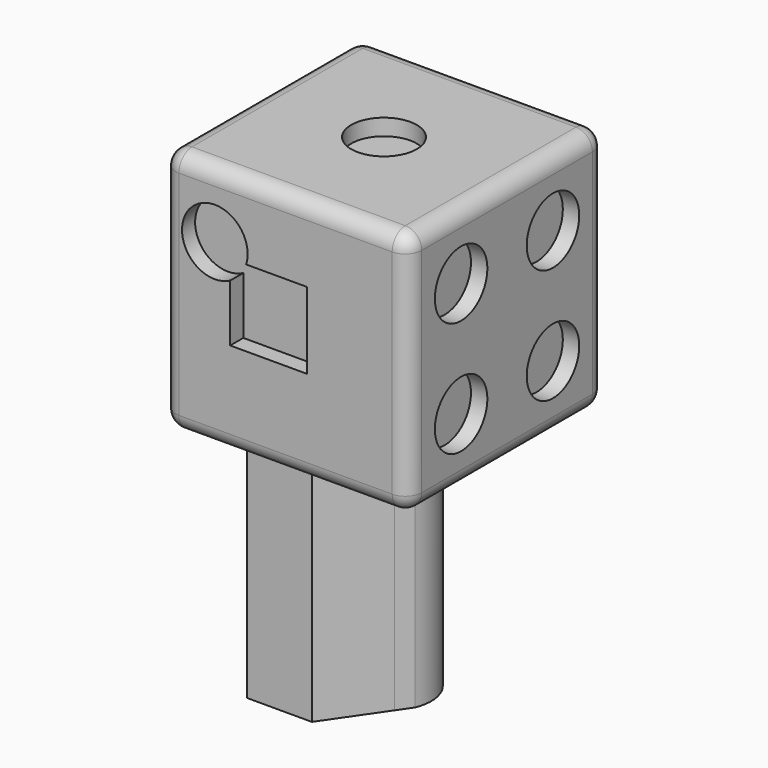
from build123d import *

# Parameters (mm, degrees)
F0_W      = 30
F0_H      = 30
F1_DEPTH  = 15
F2_R      = 4
F3_DEPTH  = 2
F4_R      = 4
F5_DEPTH  = 2
F7_DEPTH  = 2
F8_R      = 2
F10_DEPTH = 30


with BuildPart() as f1:
    # F0 (on Top) → F1 (new body, symmetric)
    with BuildSketch(Plane.XY):
        Rectangle(F0_W, F0_H)
    extrude(amount=F1_DEPTH, both=True)

    # F2 (on face) → F3 (cut)
    with BuildSketch(Plane.XY.offset(15)):
        Circle(F2_R)
    extrude(amount=-F3_DEPTH, mode=Mode.SUBTRACT)

    # F4 (on face) → F5 (cut)
    with BuildSketch(Plane.YZ.offset(15)):
        with Locations((-7, -7)):
            Circle(F4_R)
        with Locations((7, -7)):
            Circle(F4_R)
        with Locations((7, 7)):
            Circle(F4_R)
        with Locations((-7, 7)):
            Circle(F4_R)
    extrude(amount=-F5_DEPTH, mode=Mode.SUBTRACT)

    # F6 (on face) → F7 (cut)
    with BuildSketch(Plane.XZ.offset(15)):
        with BuildLine():
            ThreePointArc((-4.8005116586, 5.859375), (-4.6691210888, 6.4387772411), (-4.6249997839, 7.0312498137))
            ThreePointArc((-4.6249997839, 7.0312498137), (-12.0528271059, 9.0928025904), (-6.7499997094, 3.497926347))
            Line((-6.7499997094, 3.497926347), (-6.7499997094, 5.859375))
            Line((-6.7499997094, 5.859375), (-4.8005116586, 5.859375))
        make_face()
        with BuildLine():
            Line((-6.7499997094, 5.859375), (-6.7499997094, 3.497926347))
            ThreePointArc((-6.7499997094, 3.497926347), (-5.5403358849, 4.4847132187), (-4.8005116586, 5.859375))
            Line((-4.8005116586, 5.859375), (-6.7499997094, 5.859375))
        make_face()
        with BuildLine():
            ThreePointArc((-4.8005116586, 5.859375), (-5.5403358849, 4.4847132187), (-6.7499997094, 3.497926347))
            Line((-6.7499997094, 3.497926347), (-6.7499997094, -3.4687498119))
            Line((-6.7499997094, -3.4687498119), (2.6249999646, -3.4687498119))
            Line((2.6249999646, -3.4687498119), (2.6249999646, 5.859375))
            Line((2.6249999646, 5.859375), (-4.8005116586, 5.859375))
        make_face()
    extrude(amount=-F7_DEPTH, mode=Mode.SUBTRACT)

    # F8
    f8_edges = [f1.edges().sort_by_distance(p)[0] for p in [
        (0, -15, 15),
        (15, -15, 0),
        (15, 0, 15),
        (0, 15, 15),
        (-15, 0, 15),
        (-15, -15, 0),
        (0, -15, -15),
        (-15, 0, -15),
        (-15, 15, 0),
        (0, 15, -15),
        (15, 0, -15),
        (15, 15, 0),
    ]]
    fillet(f8_edges, radius=F8_R)

    # F9 (on face) → F10 (join)
    with BuildSketch(Plane(origin=(0, 0, -15), x_dir=(1, 0, 0), z_dir=(0, 0, -1))):
        with BuildLine():
            Line((-2.0403189119, 8.4453830495), (-9.9605508149, 8.4453830495))
            Line((-9.9605508149, 8.4453830495), (-9.9605508149, 0))
            Line((-9.9605508149, 0), (-5.5503539013, 0))
            ThreePointArc((-5.5503539013, 0), (-0.8939548861, -7.0463220271), (3.7624441291, 0))
            add(Edge.make_bspline(
                [(2.6284841664, 1.6503734824), (3.0064708206, 1.1002489883), (3.3844574749, 0.5501244941), (3.7624441291, 0)],
                knots=[8.2443845859, 8.2443845859, 8.2443845859, 8.2443845859, 10.2467826055, 10.2467826055, 10.2467826055, 10.2467826055], degree=3))
            add(Edge.make_bspline(
                [(-2.0403189119, 8.4453830495), (-0.4840512191, 6.1803798605), (1.0722164736, 3.9153766715), (2.6284841664, 1.6503734824)],
                knots=[0, 0, 0, 0, 8.2443845859, 8.2443845859, 8.2443845859, 8.2443845859], degree=3))
        make_face()
    extrude(amount=F10_DEPTH)


solid = f1.part
